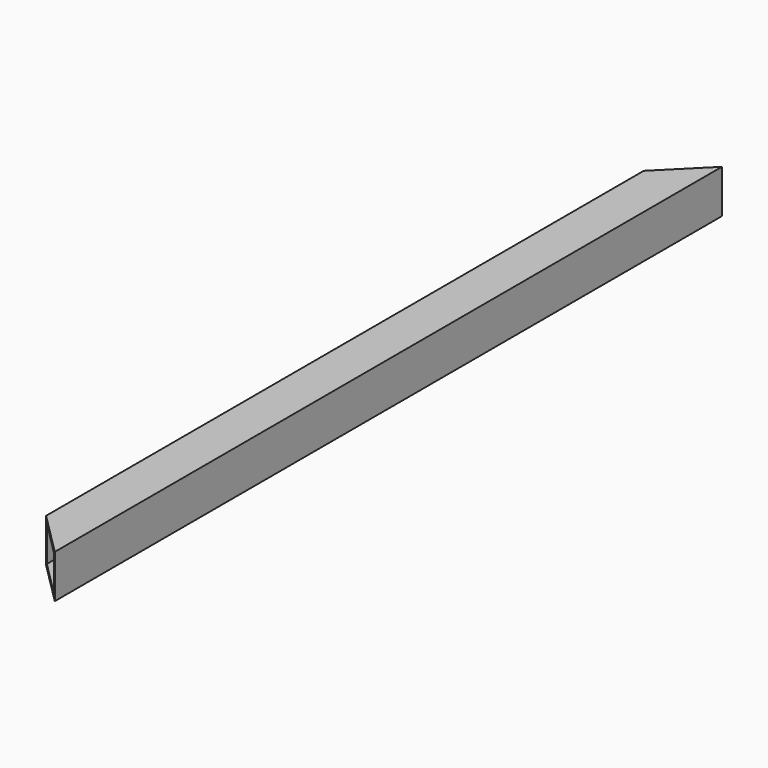
from build123d import *

# Parameters (mm, degrees)
SKETCH_W       = 31.75
SKETCH_H       = 31.75
SKETCH_W_2     = 26.2128
SKETCH_H_2     = 26.2128
PAD_DEPTH      = 304.8
PAD_DEPTH_BACK = 304.8
POCKET_DEPTH   = 31.75


with BuildPart() as part:
    # Sketch → Pad (new body, two sides)
    with BuildSketch(Plane.XZ) as pad_sk:
        Rectangle(SKETCH_W, SKETCH_H)
        Rectangle(SKETCH_W_2, SKETCH_H_2, mode=Mode.SUBTRACT)
    extrude(amount=PAD_DEPTH)
    extrude(pad_sk.sketch, amount=-PAD_DEPTH_BACK)

    # Sketch001 → Pocket (cut)
    with BuildSketch(Plane(origin=(0, 0, 15.875), x_dir=(-1, 0, 0), z_dir=(0, 0, 1))):
        Polygon((-15.875, -304.8), (15.875, -304.8), (15.875, -273.05), align=None)
    pocket = extrude(amount=-POCKET_DEPTH, mode=Mode.SUBTRACT)

    # Mirrored: Pocket across Sketch001 H_Axis
    add(pocket.mirror(Plane(origin=(0, 0, 15.875), x_dir=(0, 0, 1), z_dir=(0, -1, 0))), mode=Mode.SUBTRACT)


solid = part.part
